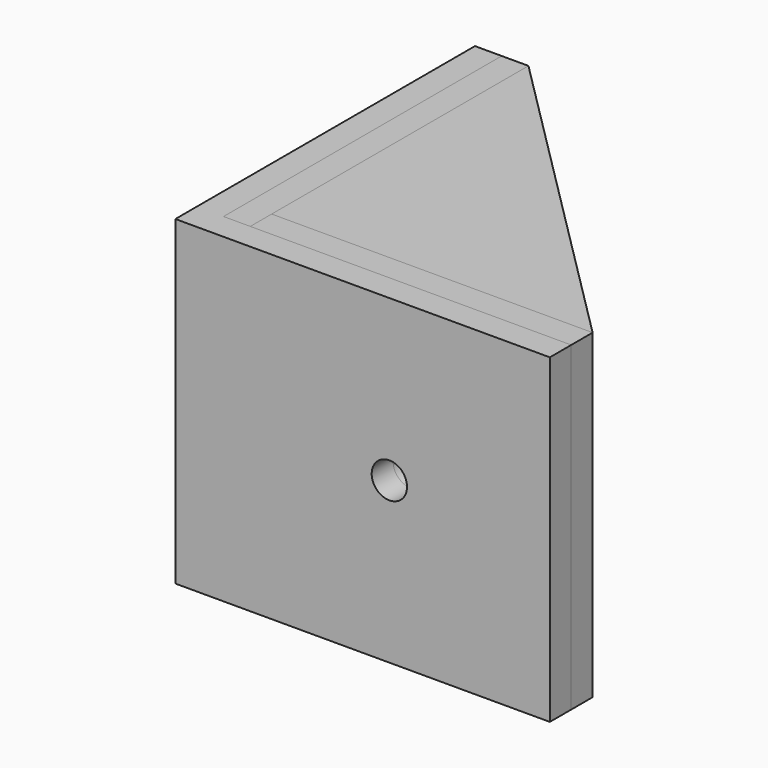
from build123d import *

# Parameters (mm, degrees)
F2_DEPTH  = 30
F4_R      = 3.25
F5_DEPTH  = 27.001
F6_R      = 1.65
F7_DEPTH  = 3.001
F9_R      = 3.25
F10_DEPTH = 27.001
F11_R     = 1.65
F12_DEPTH = 25
F13_DEPTH = 2.5
F14_W     = 32.5
F14_H     = 30
F15_DEPTH = 2.5
F16_DEPTH = 2.5
F17_W     = 35
F17_H     = 30
F18_DEPTH = 2.5
F19_R     = 1.65
F20_DEPTH = 25
F21_R     = 1.65
F22_DEPTH = 25


with BuildPart() as f2:
    # F1 (on Top) → F2 (new body)
    with BuildSketch(Plane.XY):
        Polygon((-15, -15), (15, -15), (-15, 15), align=None)
    extrude(amount=F2_DEPTH)

    # F4 (on offset) → F5 (cut, through all)
    with BuildSketch(Plane(origin=(-12, 0, 0), x_dir=(0, -1, 0), z_dir=(-1, 0, 0))):
        with Locations((0, 15)):
            Circle(F4_R)
    extrude(amount=-F5_DEPTH, mode=Mode.SUBTRACT)

    # F6 (on offset) → F7 (cut, through all)
    with BuildSketch(Plane(origin=(-12, 0, 0), x_dir=(0, -1, 0), z_dir=(-1, 0, 0))):
        with Locations((0, 15)):
            Circle(F6_R)
    extrude(amount=F7_DEPTH, mode=Mode.SUBTRACT)

    # F9 (on offset) → F10 (cut, through all)
    with BuildSketch(Plane.XZ.offset(12)):
        with Locations((0, 15)):
            Circle(F9_R)
    extrude(amount=-F10_DEPTH, mode=Mode.SUBTRACT)

    # F11 (on offset) → F12 (cut)
    with BuildSketch(Plane.XZ.offset(12)):
        with Locations((0, 15)):
            Circle(F11_R)
    extrude(amount=F12_DEPTH, mode=Mode.SUBTRACT)


with BuildPart() as f13:
    # F13 (new): a face of the model
    f13_faces = [f2.part.faces().sort_by_distance(p)[0] for p in [
        (-14.5757359313, -15, 15),
    ]]
    extrude(f13_faces, amount=F13_DEPTH)


with BuildPart() as f15:
    # F14 (on face) → F15 (new body)
    with BuildSketch(Plane(origin=(-15, 0, 0), x_dir=(0, -1, 0), z_dir=(-1, 0, 0))):
        with Locations((1.25, 15)):
            Rectangle(F14_W, F14_H)
    extrude(amount=F15_DEPTH)


with BuildPart() as f16:
    # F16 (new): a face of the model
    f16_faces = [f15.part.faces().sort_by_distance(p)[0] for p in [
        (-17.5, -1.25, 15),
    ]]
    extrude(f16_faces, amount=F16_DEPTH)

    # F17 (on face) → F18 (join)
    with BuildSketch(Plane.XZ.offset(17.5)):
        with Locations((-2.5, 15)):
            Rectangle(F17_W, F17_H)
    extrude(amount=F18_DEPTH)

    # F19 (on face) → F20 (cut)
    with BuildSketch(Plane.XZ.offset(12)):
        with Locations((0, 15)):
            Circle(F19_R)
    extrude(amount=F20_DEPTH, mode=Mode.SUBTRACT)


with BuildPart() as f22_tool:
    # F21 (on face) → F22 (new body)
    with BuildSketch(Plane.YZ.offset(-15)):
        with Locations((0, 15)):
            Circle(F21_R)
    extrude(amount=-F22_DEPTH)


with BuildPart() as f15_1:
    add(f15.part)

    # F22: cut by f22_tool
    add(f22_tool.part, mode=Mode.SUBTRACT)


with BuildPart() as f16_1:
    add(f16.part)

    # F22: cut by f22_tool
    add(f22_tool.part, mode=Mode.SUBTRACT)


solid = Compound([f2.part, f13.part, f15_1.part, f16_1.part])
